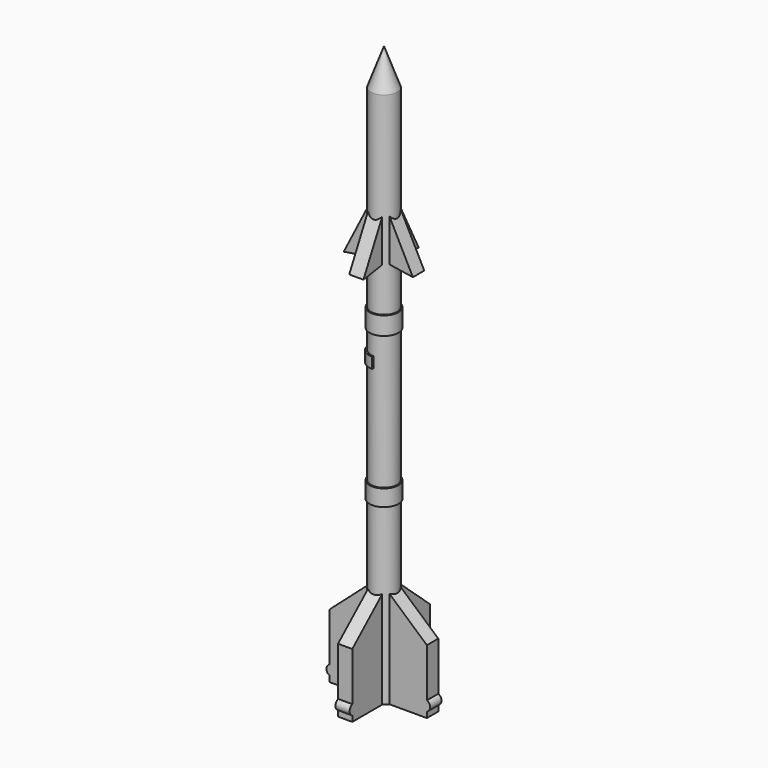
from build123d import *

# Parameters (mm, degrees)
F3_DEPTH      = 0.3
F4_COUNT      = 4
F5_W          = 0.625
F5_H          = 0.4513888889
F6_ANGLE_BACK = 90
F6_ANGLE      = 180


with BuildPart() as f1:
    # F0 (on Front) → F1 (revolve)
    with BuildSketch(Plane.XZ):
        Polygon((0, 24.1666666667), (0, 0), (0.5555555556, 0), (0.5555555556, 7.3611111111), (0.6076388889, 7.3611111111), (0.6076388889, 8.0555555556), (0.5555555556, 8.0555555556), (0.5555555556, 13.7152777778), (0.6076388889, 13.7152777778), (0.6076388889, 14.4791666667), (0.5555555556, 14.4791666667), (0.5555555556, 22.6388888889), align=None)
    revolve(axis=Axis((0, 0, 12.0833333333), (0, 0, -1)))

    # F2 (on Front) → F3 (join, symmetric)
    with BuildSketch(Plane.XZ):
        with BuildLine():
            Line((0, 0), (2.0486111111, 0))
            Line((2.0486111111, 0), (2.0486111111, 0.2430555556))
            ThreePointArc((2.0486111111, 0.2430555556), (2.1875, 0.4513888889), (2.0486111111, 0.6597222222))
            Line((2.0486111111, 0.6597222222), (2.0486111111, 2.7083333333))
            Line((2.0486111111, 2.7083333333), (0.4, 4.165245478))
            Line((0.4, 4.165245478), (0.4, 16.3433760684))
            Line((0.4, 16.3433760684), (1.4583333333, 16.1805555556))
            Line((1.4583333333, 16.1805555556), (0, 19.0411324786))
            Line((0, 19.0411324786), (0, 0))
        make_face()
    extrude(amount=F3_DEPTH, both=True)

    # F4: F1 ×4 about axis
    f4_axis = Axis((0, 0, 8.0555555556), (0, 0, 1))


with BuildPart() as f1_1:
    add(f1.part)
    for i in range(1, F4_COUNT):
        add(f1.part.rotate(f4_axis, i * 360 / F4_COUNT))

    # F5 (on Front) → F6 (revolve)
    with BuildSketch(Plane.XZ, mode=Mode.PRIVATE) as f6_sk:
        with Locations((-0.3125, 12.65625)):
            Rectangle(F5_W, F5_H)
    revolve(f6_sk.sketch.rotate(Axis((0, 0, 8.0555555556), (0, 0, 1)), -F6_ANGLE_BACK), axis=Axis((0, 0, 8.0555555556), (0, 0, 1)), revolution_arc=F6_ANGLE)


solid = f1_1.part
